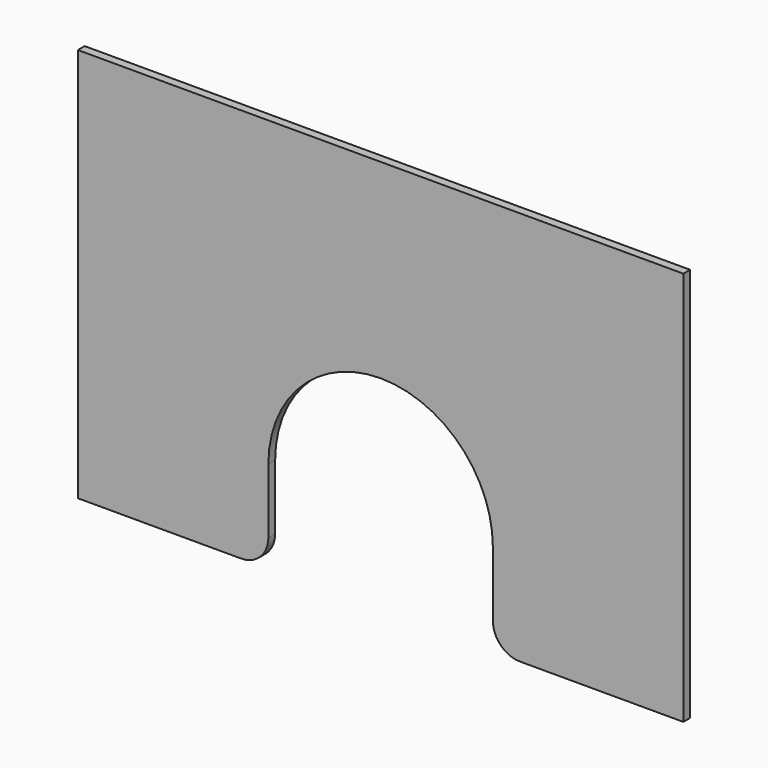
from build123d import *

# Parameters (mm, degrees)
F1_DEPTH = 15.875


with BuildPart() as f1:
    # F0 (on Front) → F1 (new body)
    with BuildSketch(Plane.XZ):
        with BuildLine():
            Line((1059.485458, 522.484738), (-70.814542, 522.484738))
            Line((-70.814542, 522.484738), (-70.814542, -214.115262))
            Line((-70.814542, -214.115262), (233.985458, -214.115262))
            ThreePointArc((233.985458, -214.115262), (269.906482, -199.236287), (284.785458, -163.315262))
            Line((284.785458, -163.315262), (284.785458, -42.665262))
            ThreePointArc((284.785458, -42.665262), (494.335458, 166.884738), (703.885458, -42.665262))
            Line((703.885458, -42.665262), (703.885458, -163.315262))
            ThreePointArc((703.885458, -163.315262), (718.764433, -199.236287), (754.685458, -214.115262))
            Line((754.685458, -214.115262), (1059.485458, -214.115262))
            Line((1059.485458, -214.115262), (1059.485458, 522.484738))
        make_face()
    extrude(amount=F1_DEPTH)


solid = f1.part
